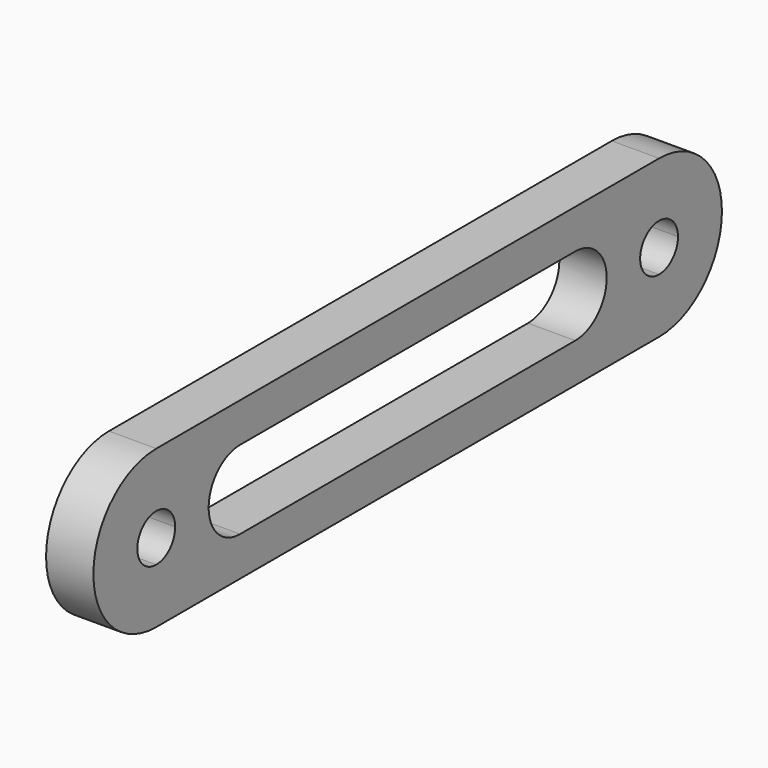
from build123d import *

# Parameters (mm, degrees)
F1_DEPTH = 6.35


with BuildPart() as f1:
    # F0 (on Right) → F1 (new body)
    with BuildSketch(Plane.YZ):
        with BuildLine():
            Line((-42.168976, -10.542244), (42.168976, -10.542244))
            Line((42.168976, -10.542244), (42.168976, -3.175))
            ThreePointArc((42.168976, -3.175), (38.993976, 0), (42.168976, 3.175))
            Line((42.168976, 3.175), (42.168976, 10.542244))
            Line((42.168976, 10.542244), (-42.168976, 10.542244))
            Line((-42.168976, 10.542244), (-42.168976, 3.175))
            ThreePointArc((-42.168976, 3.175), (-39.923912, 2.245064), (-38.993976, 0))
            ThreePointArc((-38.993976, 0), (-39.923912, -2.245064), (-42.168976, -3.175))
            Line((-42.168976, -3.175), (-42.168976, -10.542244))
        make_face()
        with BuildLine():
            ThreePointArc((28.11265, 5.271122), (33.383772, 0), (28.11265, -5.271122))
            Line((28.11265, -5.271122), (-28.11265, -5.271122))
            ThreePointArc((-28.11265, -5.271122), (-33.383772, 0), (-28.11265, 5.271122))
            Line((-28.11265, 5.271122), (28.11265, 5.271122))
        make_face(mode=Mode.SUBTRACT)
        with BuildLine():
            Line((42.168976, -3.175), (42.168976, -10.542244))
            ThreePointArc((42.168976, -10.542244), (52.71122, 0), (42.168976, 10.542244))
            Line((42.168976, 10.542244), (42.168976, 3.175))
            ThreePointArc((42.168976, 3.175), (44.41404, 2.245064), (45.343976, 0))
            ThreePointArc((45.343976, 0), (44.41404, -2.245064), (42.168976, -3.175))
        make_face()
        with BuildLine():
            ThreePointArc((-42.168976, 10.542244), (-52.71122, 0), (-42.168976, -10.542244))
            Line((-42.168976, -10.542244), (-42.168976, -3.175))
            ThreePointArc((-42.168976, -3.175), (-45.343976, 0), (-42.168976, 3.175))
            Line((-42.168976, 3.175), (-42.168976, 10.542244))
        make_face()
    extrude(amount=F1_DEPTH)


solid = f1.part
